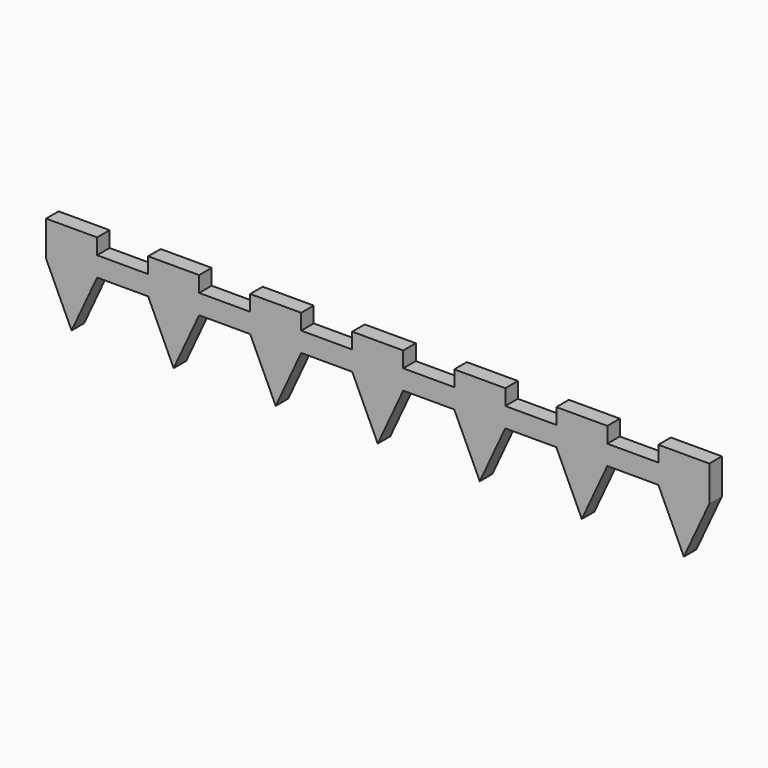
from build123d import *

# Parameters (mm, degrees)
F0_W     = 13
F0_H     = 4
F1_DEPTH = 5
F2_DEPTH = 9
F4_DEPTH = 4


with BuildPart() as f1:
    # F0 (on Top) → F1 (new body)
    with BuildSketch(Plane.XY):
        with Locations((6.5, 2)):
            Rectangle(F0_W, F0_H)
        with Locations((19.5, 2)):
            Rectangle(F0_W, F0_H)
        with Locations((32.5, 2)):
            Rectangle(F0_W, F0_H)
        with Locations((45.5, 2)):
            Rectangle(F0_W, F0_H)
        with Locations((58.5, 2)):
            Rectangle(F0_W, F0_H)
        with Locations((71.5, 2)):
            Rectangle(F0_W, F0_H)
        with Locations((84.5, 2)):
            Rectangle(F0_W, F0_H)
        with Locations((97.5, 2)):
            Rectangle(F0_W, F0_H)
        with Locations((110.5, 2)):
            Rectangle(F0_W, F0_H)
        with Locations((123.5, 2)):
            Rectangle(F0_W, F0_H)
        with Locations((136.5, 2)):
            Rectangle(F0_W, F0_H)
        with Locations((149.5, 2)):
            Rectangle(F0_W, F0_H)
        with Locations((162.5, 2)):
            Rectangle(F0_W, F0_H)
    extrude(amount=F1_DEPTH)

    # F0 (on Top) → F2 (join)
    with BuildSketch(Plane.XY):
        with Locations((6.5, 2)):
            Rectangle(F0_W, F0_H)
        with Locations((32.5, 2)):
            Rectangle(F0_W, F0_H)
        with Locations((58.5, 2)):
            Rectangle(F0_W, F0_H)
        with Locations((84.5, 2)):
            Rectangle(F0_W, F0_H)
        with Locations((110.5, 2)):
            Rectangle(F0_W, F0_H)
        with Locations((136.5, 2)):
            Rectangle(F0_W, F0_H)
        with Locations((162.5, 2)):
            Rectangle(F0_W, F0_H)
    extrude(amount=F2_DEPTH)

    # F3 (on face) → F4 (join)
    with BuildSketch(Plane.XZ):
        Polygon((13, 0), (0, 0), (6.5, -14), align=None)
        Polygon((39, 0), (26, 0), (32.5, -14), align=None)
        Polygon((65, 0), (52, 0), (58.5, -14), align=None)
        Polygon((91, 0), (78, 0), (84.5, -14), align=None)
        Polygon((117, 0), (104, 0), (110.5, -14), align=None)
        Polygon((143, 0), (130, 0), (136.5, -14), align=None)
        Polygon((162.5, 0), (156, 0), (162.5, -14), align=None)
        Polygon((162.5, 0), (162.5, -14), (169, 0), align=None)
    extrude(amount=-F4_DEPTH)


solid = f1.part
